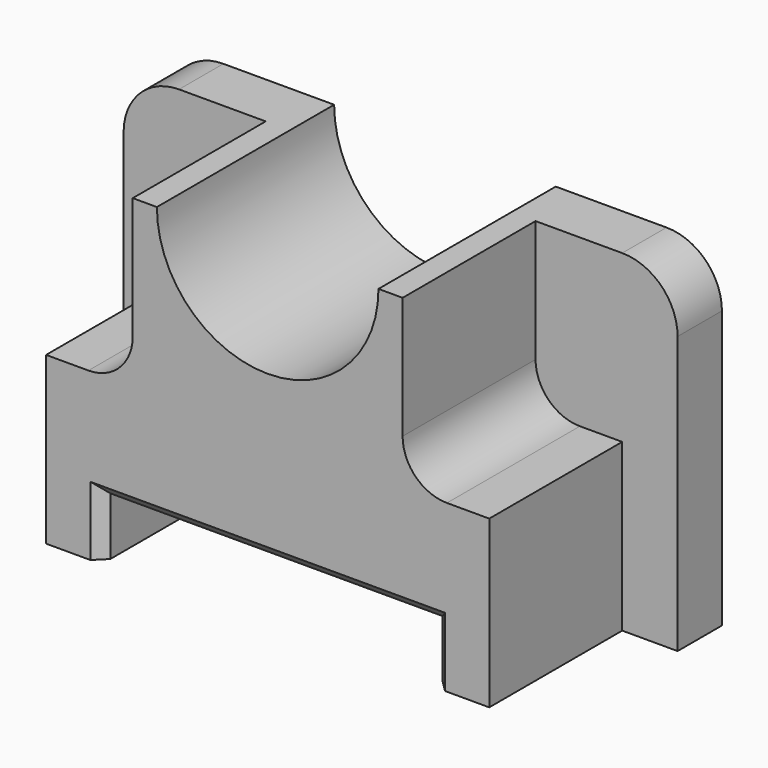
from build123d import *

# Parameters (mm, degrees)
F1_DEPTH = 6.35
F3_DEPTH = 19.05
F4_R     = 5.08
F5_SIZE  = 1.27


with BuildPart() as f1:
    # F0 (on Front) → F1 (new body)
    with BuildSketch(Plane.XZ):
        with BuildLine():
            Line((-12.7, 19.05), (-25.4, 19.05))
            ThreePointArc((-25.4, 19.05), (-29.890128, 17.190128), (-31.75, 12.7))
            Line((-31.75, 12.7), (-31.75, -19.05))
            Line((-31.75, -19.05), (31.75, -19.05))
            Line((31.75, -19.05), (31.75, 12.7))
            ThreePointArc((31.75, 12.7), (29.890128, 17.190128), (25.4, 19.05))
            Line((25.4, 19.05), (12.7, 19.05))
            ThreePointArc((12.7, 19.05), (0, 6.35), (-12.7, 19.05))
        make_face()
    extrude(amount=F1_DEPTH)

    # F2 (on face) → F3 (join)
    with BuildSketch(Plane.XZ.offset(6.35)):
        with BuildLine():
            ThreePointArc((12.7, 19.05), (0, 6.35), (-12.7, 19.05))
            Line((-12.7, 19.05), (-15.467166, 19.05))
            Line((-15.467166, 19.05), (-15.467166, 0))
            Line((-15.467166, 0), (-25.4, 0))
            Line((-25.4, 0), (-25.4, -19.05))
            Line((-25.4, -19.05), (-19.05, -19.05))
            Line((-19.05, -19.05), (-19.05, -12.423539))
            Line((-19.05, -12.423539), (19.05, -12.423539))
            Line((19.05, -12.423539), (19.05, -19.05))
            Line((19.05, -19.05), (25.4, -19.05))
            Line((25.4, -19.05), (25.4, 0))
            Line((25.4, 0), (15.467166, 0))
            Line((15.467166, 0), (15.467166, 19.05))
            Line((15.467166, 19.05), (12.7, 19.05))
        make_face()
    extrude(amount=F3_DEPTH)

    # F4
    f4_edges = [f1.edges().sort_by_distance(p)[0] for p in [
        (-15.467166, -15.875, 0),
        (15.467166, -15.875, 0),
    ]]
    fillet(f4_edges, radius=F4_R)

    # F5
    f5_edges = [f1.edges().sort_by_distance(p)[0] for p in [
        (0, -25.4, -12.423539),
        (-19.05, -25.4, -15.736769),
        (19.05, -25.4, -15.736769),
    ]]
    chamfer(f5_edges, length=F5_SIZE)


solid = f1.part
